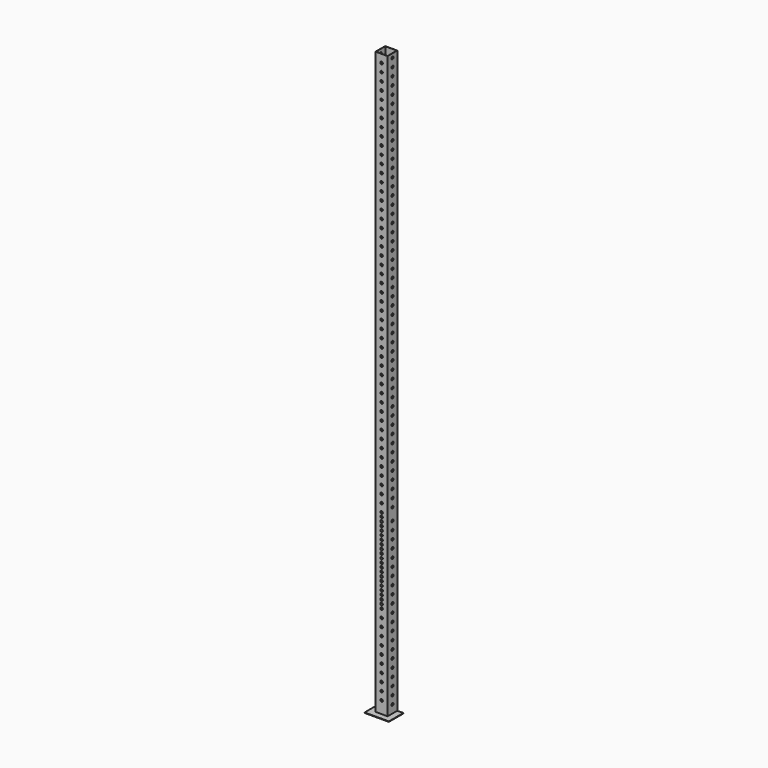
from build123d import *

# Parameters (mm, degrees)
F0_W     = 152.589858
F0_H     = 114.351779
F0_W_2   = 76.2
F0_H_2   = 76.2
F1_DEPTH = 3.048
F0_W_3   = 73.152
F0_H_3   = 73.152
F2_DEPTH = 3657.6
F7_D     = 15.875
F8_D     = 15.875


with BuildPart() as f1:
    # F0 (on Top) → F1 (new body)
    with BuildSketch(Plane.XY):
        with Locations((0.045307, -19.073733)):
            Rectangle(F0_W, F0_H)
        Rectangle(F0_W_2, F0_H_2, mode=Mode.SUBTRACT)
    extrude(amount=-F1_DEPTH)

    # F0 (on Top) → F2 (join)
    with BuildSketch(Plane.XY):
        Rectangle(F0_W_2, F0_H_2)
        Rectangle(F0_W_3, F0_H_3, mode=Mode.SUBTRACT)
    extrude(amount=F2_DEPTH)

    # F7 (through all)
    with Locations(Plane.XZ.offset(76.2)):
        with Locations((2.3e-05, 76.2), (2.3e-05, 127), (2.3e-05, 177.8), (2.3e-05, 228.6), (2.3e-05, 279.4), (2.3e-05, 330.2), (2.3e-05, 381), (2.3e-05, 431.8), (2.3e-05, 482.6), (2.3e-05, 533.4), (2.3e-05, 584.2), (0, 609.59998), (-2.3e-05, 634.999959), (-4.6e-05, 660.399939), (-6.8e-05, 685.799918), (-9.1e-05, 711.199898), (-0.000114, 736.599877), (-0.000137, 761.999857), (-0.00016, 787.399836), (-0.000183, 812.799816), (-0.000205, 838.199795), (-0.000228, 863.599775), (-0.000251, 888.999754), (-0.000274, 914.399734), (-0.000297, 939.799713), (-0.00032, 965.199693), (-0.000342, 990.599672), (-0.000365, 1015.999652), (-0.000388, 1041.399632), (-0.000411, 1066.799611), (-0.000434, 1092.199591), (-0.000457, 1117.59957), (0.000502, 1168.39957), (0.000502, 1219.19957), (0.000502, 1269.99957), (0.000502, 1320.79957), (0.000502, 1371.59957), (0.000502, 1422.39957), (0.000502, 1473.19957), (0.000502, 1523.99957), (0.000502, 1574.79957), (0.000502, 1625.59957), (0.000502, 1676.39957), (0.000502, 1727.19957), (0.000502, 1777.99957), (0.000502, 1828.79957), (0.000502, 1879.59957), (0.000502, 1930.39957), (0.000502, 1981.19957), (0.000502, 2031.99957), (0.000502, 2082.79957), (0.000502, 2133.59957), (0.000502, 2184.39957), (0.000502, 2235.19957), (0.000502, 2285.99957), (0.000502, 2336.79957), (0.000502, 2387.59957), (0.000502, 2438.39957), (0.000502, 2489.19957), (0.000502, 2539.99957), (0.000502, 2590.79957), (0.000502, 2641.59957), (0.000502, 2692.39957), (0.000502, 2793.99957), (0.000502, 2844.79957), (0.000502, 2895.59957), (0.000502, 2946.39957), (0.000502, 2997.19957), (0.000502, 3047.99957), (0.000502, 3098.79957), (0.000502, 3149.59957), (0.000502, 3200.39957), (0.000502, 3251.19957), (0.000502, 3301.99957), (0.000502, 3352.79957), (0.000502, 3403.59957), (0.000502, 3454.39957), (0.000502, 3505.19957), (0.000502, 3555.99957), (0.000502, 3606.79957), (0, 2743.19957)):
            Hole(F7_D / 2)

    # F8 (through all)
    with Locations(Plane.YZ.offset(76.2)):
        with Locations((0, 50.8), (0, 101.6), (0, 152.4), (0, 203.2), (0, 254), (0, 304.8), (0, 355.6), (0, 406.4), (0, 457.2), (0, 508), (0, 558.8), (0, 609.6), (0, 660.4), (0, 711.2), (0, 762), (0, 812.8), (0, 863.6), (0, 914.4), (0, 965.2), (0, 1016), (0, 1066.8), (0, 1143), (0, 1193.8), (0, 1244.6), (0, 1295.4), (0, 1346.2), (0, 1397), (0, 1447.8), (0, 1498.6), (0, 1549.4), (0, 1600.2), (0, 1651), (0, 1701.8), (0, 1752.6), (0, 1803.4), (0, 1854.2), (0, 1905), (0, 1955.8), (0, 2006.6), (0, 2057.4), (0, 2108.2), (0, 2159), (0, 2209.8), (0, 2260.6), (0, 2311.4), (0, 2362.2), (0, 2413), (0, 2463.8), (0, 2514.6), (0, 2565.4), (0, 2616.2), (0, 2667), (0, 2717.8), (0, 2819.4), (0, 2870.2), (0, 2768.6), (0, 2921), (0, 2971.8), (0, 3022.6), (0, 3073.4), (0, 3124.2), (0, 3175), (0, 3225.8), (0, 3276.6), (0, 3327.4), (0, 3378.2), (0, 3429), (0, 3479.8), (0, 3530.6), (0, 3581.4), (0, 3632.2)):
            Hole(F8_D / 2)


solid = f1.part
